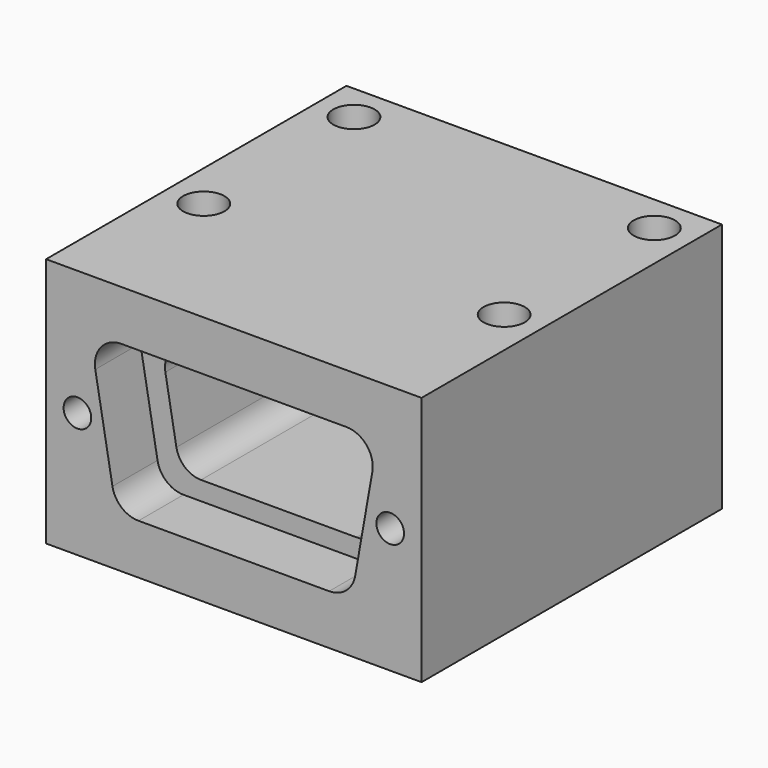
from build123d import *

# Parameters (mm, degrees)
SKETCH001_W              = 30
SKETCH001_H              = 30
PAD_DEPTH                = 20
POCKET_DEPTH             = 4.5
POCKET001_DEPTH          = 20
SKETCH004_R              = 3
HOLE001_DEPTH            = 30.001
SKETCH005_R              = 1.1049
HOLE002_DEPTH            = 9.336109
HOLE002_TIPS_R           = 1.1049
SKETCH_R                 = 1.65
HOLE_DEPTH               = 20.001
CLONE_PITCH_ANGLE        = -90
CLONE_PLACEMENT_ANGLE    = -90
CLONE001_PLACEMENT_ANGLE = 270


with BuildPart() as part:
    # Sketch001 → Pad (new body)
    with BuildSketch(Plane.XY):
        with Locations((4.5, 0)):
            Rectangle(SKETCH001_W, SKETCH001_H)
    extrude(amount=PAD_DEPTH)

    # Sketch002 (on DatumPlane) → Pocket (cut)
    with BuildSketch(Plane(origin=(19.5, 0, 10), x_dir=(0, 1, 0), z_dir=(1, 0, 0))):
        with BuildLine():
            Line((-8.99, 6), (8.99, 6))
            ThreePointArc((11.067944, 3.523602), (10.606354, 5.246282), (8.99, 6))
            Line((11.067944, 3.523602), (9.69612, -4.256398))
            ThreePointArc((7.618176, -6), (8.974458, -5.506354), (9.69612, -4.256398))
            Line((-7.618176, -6), (7.618176, -6))
            ThreePointArc((-9.69612, -4.256398), (-8.974458, -5.506354), (-7.618176, -6))
            Line((-11.067944, 3.523602), (-9.69612, -4.256398))
            ThreePointArc((-8.99, 6), (-10.606354, 5.246282), (-11.067944, 3.523602))
        make_face()
    extrude(amount=-POCKET_DEPTH, mode=Mode.SUBTRACT)

    # Sketch003 (on DatumPlane) → Pocket001 (cut)
    with BuildSketch(Plane(origin=(19.5, 0, 10), x_dir=(0, 1, 0), z_dir=(1, 0, 0))):
        with BuildLine():
            Line((-7.1, 4.5), (7.1, 4.5))
            ThreePointArc((9.069616, 2.152704), (8.632089, 3.785575), (7.1, 4.5))
            Line((9.069616, 2.152704), (8.187981, -2.847296))
            ThreePointArc((6.218365, -4.5), (7.50394, -4.032089), (8.187981, -2.847296))
            Line((-6.218365, -4.5), (6.218365, -4.5))
            ThreePointArc((-8.187981, -2.847296), (-7.50394, -4.032089), (-6.218365, -4.5))
            Line((-9.069616, 2.152704), (-8.187981, -2.847296))
            ThreePointArc((-7.1, 4.5), (-8.632089, 3.785575), (-9.069616, 2.152704))
        make_face()
    extrude(amount=-POCKET001_DEPTH, mode=Mode.SUBTRACT)

    # Sketch004 (on DatumPlane) → Hole001 (cut, through all)
    with BuildSketch(Plane(origin=(19.5, 0, 10), x_dir=(0, 1, 0), z_dir=(1, 0, 0))):
        Circle(SKETCH004_R)
    extrude(amount=-HOLE001_DEPTH, mode=Mode.SUBTRACT)

    # Sketch005 (on DatumPlane) → Hole002 (cut)
    with BuildSketch(Plane(origin=(19.5, 0, 10), x_dir=(0, 1, 0), z_dir=(1, 0, 0))):
        with Locations((-12.495, 0)):
            Circle(SKETCH005_R)
        with Locations((12.495, 0)):
            Circle(SKETCH005_R)
    extrude(amount=-HOLE002_DEPTH, mode=Mode.SUBTRACT)

    # Hole002 tips → Hole002 tip 1 section 0
    with BuildSketch(Plane(origin=(10.163891, 0, 10), x_dir=(0, 1, 0), z_dir=(1, 0, 0)), mode=Mode.PRIVATE) as hole002_tip_1_s0:
        with Locations((-12.495, 0)):
            Circle(HOLE002_TIPS_R)
    loft([hole002_tip_1_s0.sketch, Vertex(9.5, -12.495, 10)], mode=Mode.SUBTRACT)

    # Hole002 tips → Hole002 tip 2 section 0
    with BuildSketch(Plane(origin=(10.163891, 0, 10), x_dir=(0, 1, 0), z_dir=(1, 0, 0)), mode=Mode.PRIVATE) as hole002_tip_2_s0:
        with Locations((12.495, 0)):
            Circle(HOLE002_TIPS_R)
    loft([hole002_tip_2_s0.sketch, Vertex(9.5, 12.495, 10)], mode=Mode.SUBTRACT)

    # Sketch (on DatumPlane) → Hole (cut, through all)
    with BuildSketch(Plane.XY.offset(20)):
        with Locations((-7.5, 12)):
            Circle(SKETCH_R)
        with Locations((7.5, 12)):
            Circle(SKETCH_R)
        with Locations((7.5, -12)):
            Circle(SKETCH_R)
        with Locations((-7.5, -12)):
            Circle(SKETCH_R)
    extrude(amount=-HOLE_DEPTH, mode=Mode.SUBTRACT)


with BuildPart() as part_1:
    # Clone pitch: moved
    add(part.part.rotate(Axis((0, 0, 0), (0, 1, 0)), CLONE_PITCH_ANGLE))


with BuildPart() as part_2:
    # Clone placement: moved
    add(part_1.part.moved(Location((15.65, 3.4, -20.65))).rotate(Axis((15.65, 3.4, -20.65), (0, 0, 1)), CLONE_PLACEMENT_ANGLE))


with BuildPart() as part_3:
    # Clone001 placement: moved
    add(part_2.part.moved(Location((-0.65, -1.15, -22.9))).rotate(Axis((-0.65, -1.15, -22.9), (-1, 0, 0)), CLONE001_PLACEMENT_ANGLE))


solid = part_3.part
